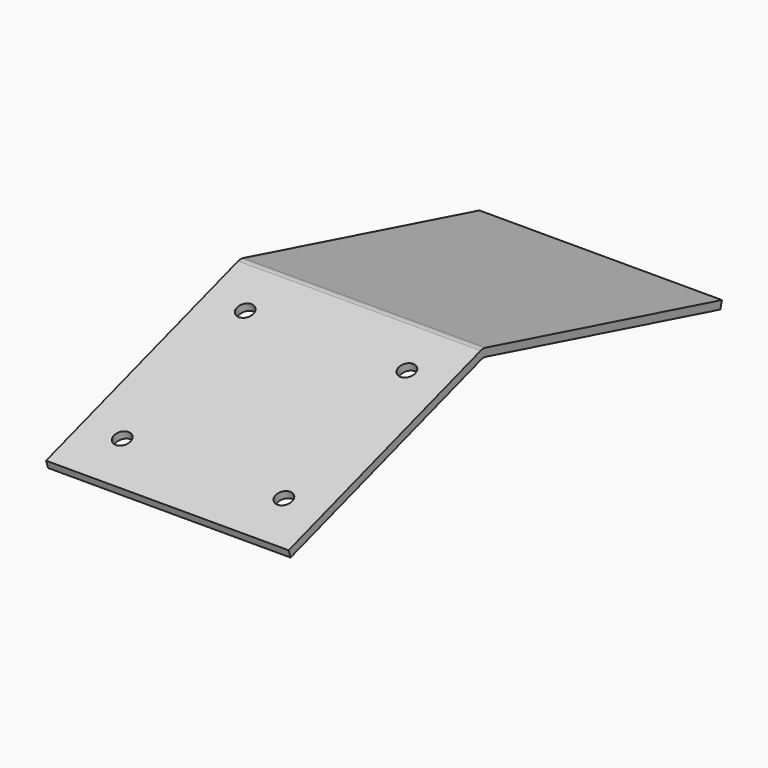
from build123d import *

# Parameters (mm, degrees)
PAD015_DEPTH    = 46.5
SKETCH024_R     = 3.175
POCKET016_DEPTH = 4
FILLET007_R     = 4


with BuildPart() as part:
    # Sketch043 → Pad015 (new body, symmetric)
    with BuildSketch(Plane.YZ):
        Polygon((-268, 55), (-268.9285051775, 57.8526966427), (-175.7404148487, 88.1838657739), (-61.2329665245, 57.900286132), (-62, 55), (-175.5643554306, 85.0341615546), align=None)
    extrude(amount=PAD015_DEPTH, both=True)

    # Sketch024 (on Face2 of Pad015) → Pocket016 (cut)
    with BuildSketch(Plane(origin=(0, -42.7873449396, 131.4578725241), x_dir=(0, -0.9508988809, -0.3095017258), z_dir=(0, -0.3095017258, 0.9508988809))):
        with Locations((157.8183051623, -31)):
            Circle(SKETCH024_R)
        with Locations((157.8183051623, 31)):
            Circle(SKETCH024_R)
        with Locations((219.8183051623, 31)):
            Circle(SKETCH024_R)
        with Locations((219.8183051623, -31)):
            Circle(SKETCH024_R)
    extrude(amount=-POCKET016_DEPTH, mode=Mode.SUBTRACT)

    # Fillet007
    fillet007_edges = [part.edges().sort_by_distance(p)[0] for p in [
        (0, -175.740415, 88.183866),
        (0, -175.564355, 85.034162),
    ]]
    fillet(fillet007_edges, radius=FILLET007_R)


with BuildPart() as part_1:
    # Body009 placement: moved
    add(part.part.moved(Location((0, 0, 1))))


solid = part_1.part
